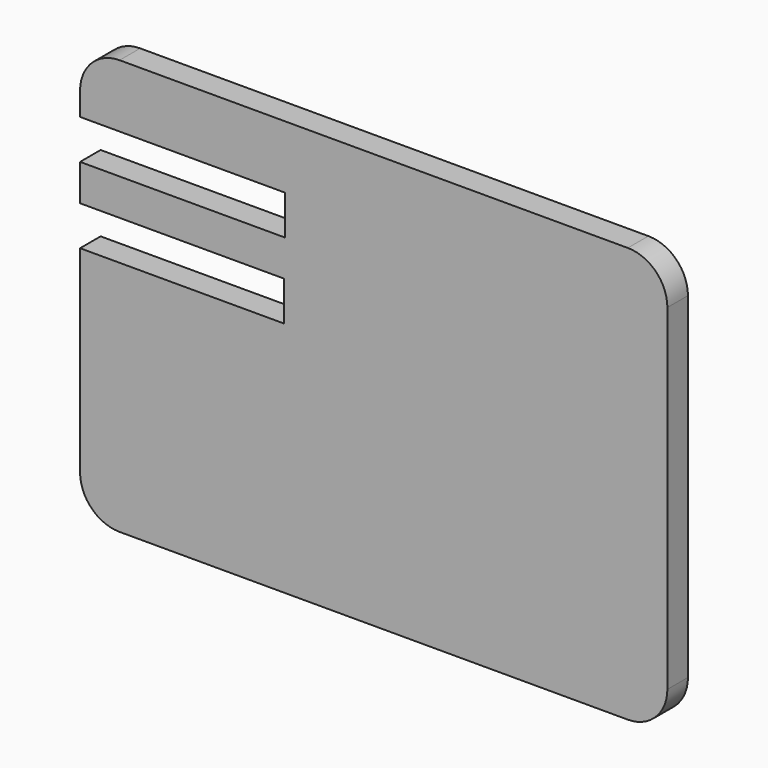
from build123d import *

# Parameters (mm, degrees)
F1_DEPTH = 13
F2_W     = 110
F2_H     = 20
F3_DEPTH = 25
F4_W     = 110
F4_H     = 20
F5_DEPTH = 25


with BuildPart() as f1:
    # F0 (on Front) → F1 (new body)
    with BuildSketch(Plane.XZ):
        with BuildLine():
            Line((218.799954, 176.439716), (-38.200046, 176.439716))
            ThreePointArc((-38.200046, 176.439716), (-52.342182, 170.581852), (-58.200046, 156.439716))
            Line((-58.200046, 156.439716), (-58.200046, -13.560284))
            ThreePointArc((-58.200046, -13.560284), (-52.342182, -27.70242), (-38.200046, -33.560284))
            Line((-38.200046, -33.560284), (218.799954, -33.560284))
            ThreePointArc((218.799954, -33.560284), (232.942089, -27.70242), (238.799954, -13.560284))
            Line((238.799954, -13.560284), (238.799954, 156.439716))
            ThreePointArc((238.799954, 156.439716), (232.942089, 170.581852), (218.799954, 176.439716))
        make_face()
    extrude(amount=F1_DEPTH)

    # F2 (on face) → F3 (cut)
    with BuildSketch(Plane.XZ.offset(13)):
        with Locations((-9.645737, 134.683969)):
            Rectangle(F2_W, F2_H)
    extrude(amount=-F3_DEPTH, mode=Mode.SUBTRACT)

    # F4 (on face) → F5 (cut)
    with BuildSketch(Plane.XZ.offset(13)):
        with Locations((-10.065921, 96.247018)):
            Rectangle(F4_W, F4_H)
    extrude(amount=-F5_DEPTH, mode=Mode.SUBTRACT)


solid = f1.part
